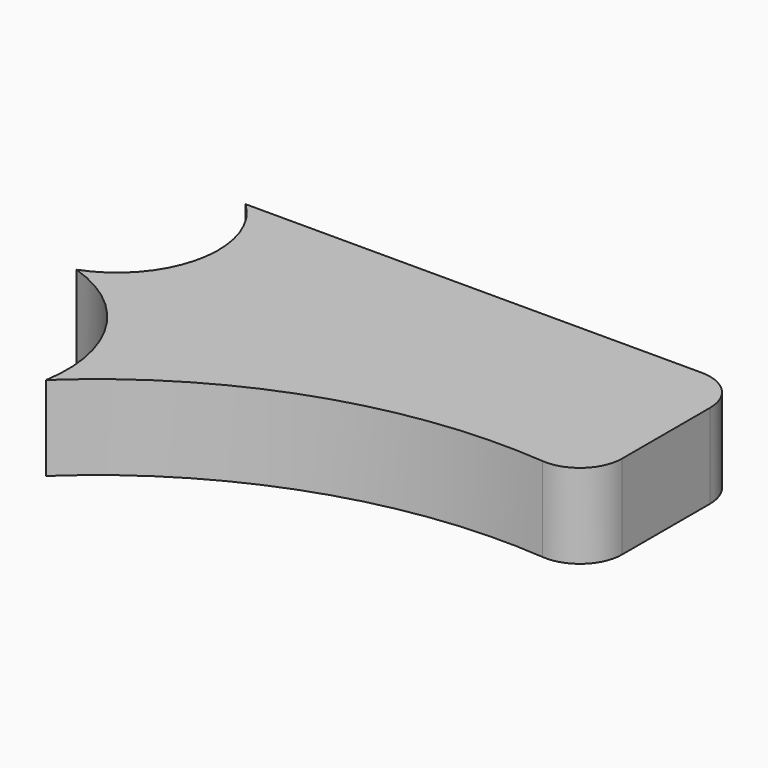
from build123d import *

# Parameters (mm, degrees)
PAD_DEPTH = 10


with BuildPart() as part:
    # Sketch → Pad (new body)
    with BuildSketch(Plane.XY):
        with BuildLine():
            Line((0, 0), (54, 0))
            ThreePointArc((59, -5), (57.535534, -1.464466), (54, 0))
            Line((59, -5), (59, -18.017197))
            ThreePointArc((53.585664, -23), (57.385876, -21.696306), (59, -18.017197))
            ThreePointArc((53.585664, -23), (28.896907, -26.125735), (7.6, -39))
            ThreePointArc((7.6, -39), (5.342456, -27.337237), (-4, -20))
            ThreePointArc((-4, -20), (3.565231, -11.113046), (0, 0))
        make_face()
    extrude(amount=PAD_DEPTH)


solid = part.part
